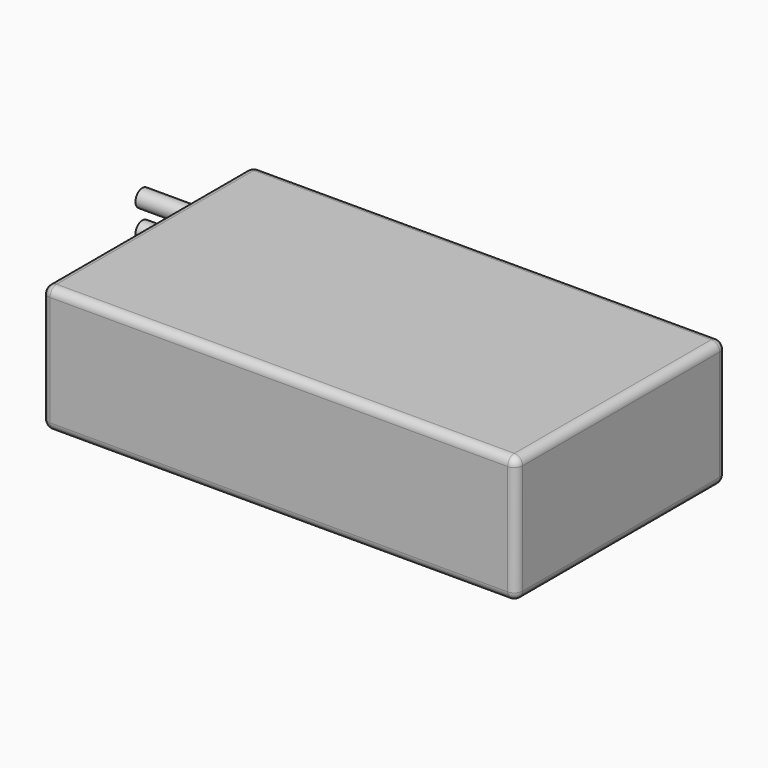
from build123d import *

# Parameters (mm, degrees)
F0_W     = 57.2
F0_H     = 31.7
F1_DEPTH = 15.3
F2_R     = 1
F3_R     = 1.05
F4_DEPTH = 10


with BuildPart() as f1:
    # F0 (on Top) → F1 (new body)
    with BuildSketch(Plane.XY):
        Rectangle(F0_W, F0_H)
    extrude(amount=F1_DEPTH)

    # F2
    f2_edges = [f1.edges().sort_by_distance(p)[0] for p in [
        (0, -15.85, 15.3),
        (28.6, 15.85, 7.65),
        (28.6, -15.85, 7.65),
        (-28.6, -15.85, 7.65),
        (0, 15.85, 15.3),
        (0, -15.85, 0),
        (-28.6, 15.85, 7.65),
        (0, 15.85, 0),
        (28.6, 0, 0),
        (28.6, 0, 15.3),
        (-28.6, 0, 0),
        (-28.6, 0, 15.3),
    ]]
    fillet(f2_edges, radius=F2_R)


with BuildPart() as f4:
    # F3 (on face) → F4 (new body)
    with BuildSketch(Plane(origin=(-28.6, 0, 0), x_dir=(0, -1, 0), z_dir=(-1, 0, 0))):
        with Locations((-11.827209, 10.068467)):
            Circle(F3_R)
        with Locations((-11.827209, 6.637755)):
            Circle(F3_R)
    extrude(amount=F4_DEPTH)


solid = Compound([f1.part, f4.part])
